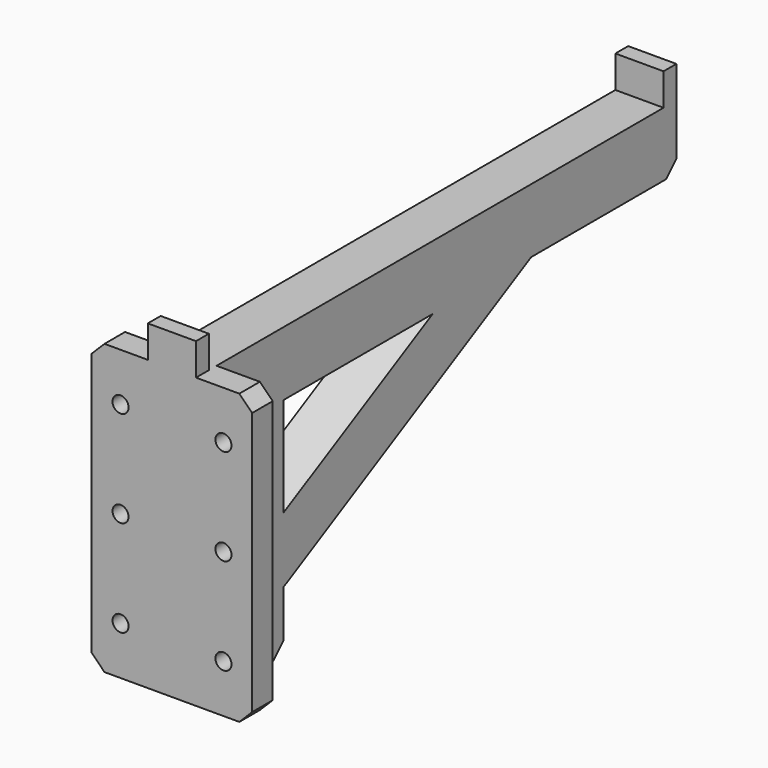
from build123d import *

# Parameters (mm, degrees)
CYLINDER001_R          = 2.5
CYLINDER001_DEPTH      = 20
CYLINDER002_R          = 2.5
CYLINDER002_DEPTH      = 20
CYLINDER004_R          = 2.5
CYLINDER004_DEPTH      = 20
CYLINDER005_R          = 2.5
CYLINDER005_DEPTH      = 20
CYLINDER003_R          = 2.5
CYLINDER003_DEPTH      = 20
CYLINDER_R             = 2.5
CYLINDER_DEPTH         = 20
BOX004_W               = 50
BOX004_H               = 8
BOX004_DEPTH           = 90
CHAMFER_SIZE           = 4
CHAMFER001_SIZE        = 2
BOX002_W               = 15
BOX002_H               = 177
BOX002_DEPTH           = 100
BOX003_W               = 15
BOX003_H               = 125
BOX003_DEPTH           = 18
BOX003_PLACEMENT_ANGLE = 28
BOX001_W               = 15
BOX001_H               = 163
BOX001_DEPTH           = 100
BOX_W                  = 15
BOX_H                  = 187
BOX_DEPTH              = 100
CHAMFER002_SIZE        = 4


with BuildPart() as cylinder001:
    # Cylinder001 → Cylinder001 (new body)
    with BuildSketch(Plane(origin=(-8.5, 14, 15), x_dir=(1, 0, 0), z_dir=(0, -1, 0))):
        Circle(CYLINDER001_R)
    extrude(amount=CYLINDER001_DEPTH)


with BuildPart() as cylinder002:
    # Cylinder002 → Cylinder002 (new body)
    with BuildSketch(Plane(origin=(23.55, 14, 45), x_dir=(1, 0, 0), z_dir=(0, -1, 0))):
        Circle(CYLINDER002_R)
    extrude(amount=CYLINDER002_DEPTH)


with BuildPart() as cylinder004:
    # Cylinder004 → Cylinder004 (new body)
    with BuildSketch(Plane(origin=(23.55, 14, 75), x_dir=(1, 0, 0), z_dir=(0, -1, 0))):
        Circle(CYLINDER004_R)
    extrude(amount=CYLINDER004_DEPTH)


with BuildPart() as cylinder005:
    # Cylinder005 → Cylinder005 (new body)
    with BuildSketch(Plane(origin=(-8.5, 14, 75), x_dir=(1, 0, 0), z_dir=(0, -1, 0))):
        Circle(CYLINDER005_R)
    extrude(amount=CYLINDER005_DEPTH)


with BuildPart() as cylinder003:
    # Cylinder003 → Cylinder003 (new body)
    with BuildSketch(Plane(origin=(-8.5, 14, 45), x_dir=(1, 0, 0), z_dir=(0, -1, 0))):
        Circle(CYLINDER003_R)
    extrude(amount=CYLINDER003_DEPTH)


with BuildPart() as compound:
    # Cylinder → Cylinder (new body)
    with BuildSketch(Plane(origin=(23.55, 14, 15), x_dir=(1, 0, 0), z_dir=(0, -1, 0))):
        Circle(CYLINDER_R)
    extrude(amount=CYLINDER_DEPTH)

    # Compound: union Cylinder001, Cylinder002, Cylinder004, Cylinder005, Cylinder003
    add(cylinder001.part)
    add(cylinder002.part)
    add(cylinder004.part)
    add(cylinder005.part)
    add(cylinder003.part)


with BuildPart() as backplate:
    # Box004 → Box004 (new body)
    with BuildSketch(Plane(origin=(-17.5, 0, 0), x_dir=(1, 0, 0), z_dir=(0, 0, 1))):
        with Locations((25, 4)):
            Rectangle(BOX004_W, BOX004_H)
    extrude(amount=BOX004_DEPTH)

    # Chamfer
    chamfer_edges = [backplate.edges().sort_by_distance(p)[0] for p in [
        (-17.5, 4, 90),
        (-17.5, 4, 0),
        (32.5, 4, 90),
        (32.5, 4, 0),
    ]]
    chamfer(chamfer_edges, length=CHAMFER_SIZE)

    # Cut001: cut Compound
    add(compound.part, mode=Mode.SUBTRACT)

    # Chamfer001
    chamfer001_edges = [backplate.edges().sort_by_distance(p)[0] for p in [
        (21.05, 8, 45),
        (-11, 8, 45),
        (-11, 8, 75),
        (21.05, 8, 75),
        (21.05, 8, 15),
        (-11, 8, 15),
    ]]
    chamfer(chamfer001_edges, length=CHAMFER001_SIZE)


with BuildPart() as cube002:
    # Box002 → Box002 (new body)
    with BuildSketch(Plane(origin=(0, 5, 90), x_dir=(1, 0, 0), z_dir=(0, 0, 1))):
        with Locations((7.5, 88.5)):
            Rectangle(BOX002_W, BOX002_H)
    extrude(amount=BOX002_DEPTH)


with BuildPart() as cube003:
    # Box003 → Box003 (new body)
    with BuildSketch(Plane.XY):
        with Locations((7.5, 62.5)):
            Rectangle(BOX003_W, BOX003_H)
    extrude(amount=BOX003_DEPTH)


with BuildPart() as cube003_1:
    # Box003 placement: moved
    add(cube003.part.moved(Location((0, 20, 11.25))).rotate(Axis((0, 20, 11.25), (1, 0, 0)), BOX003_PLACEMENT_ANGLE))


with BuildPart() as cube001:
    # Box001 → Box001 (new body)
    with BuildSketch(Plane(origin=(0, 34, -30), x_dir=(1, 0, 0), z_dir=(0, 0, 1))):
        with Locations((7.5, 81.5)):
            Rectangle(BOX001_W, BOX001_H)
    extrude(amount=BOX001_DEPTH)


with BuildPart() as final:
    # Box → Box (new body)
    with BuildSketch(Plane.XY):
        with Locations((7.5, 93.5)):
            Rectangle(BOX_W, BOX_H)
    extrude(amount=BOX_DEPTH)

    # Cut: cut Cube001
    add(cube001.part, mode=Mode.SUBTRACT)

    # Fusion: union Cube003
    add(cube003_1.part)

    # Cut002: cut Cube002
    add(cube002.part, mode=Mode.SUBTRACT)

    # Chamfer002
    chamfer002_edges = [final.edges().sort_by_distance(p)[0] for p in [
        (7.5, 187, 70),
        (7.5, 34, 0),
    ]]
    chamfer(chamfer002_edges, length=CHAMFER002_SIZE)

    # Fusion001: union Backplate
    add(backplate.part)


solid = final.part
